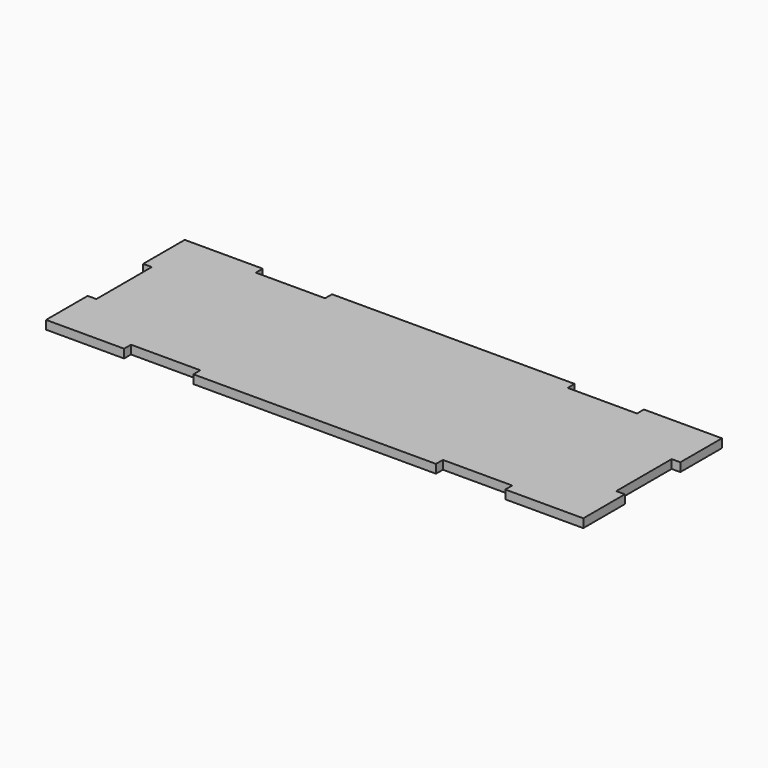
from build123d import *

# Parameters (mm, degrees)
F0_W     = 6.35
F0_H     = 38.1
F1_DEPTH = 6.35


with BuildPart() as f1:
    # F0 (on Top) → F1 (new body)
    with BuildSketch(Plane.XY):
        Polygon((-125.311107, 62.396291), (-176.111107, 62.396291), (-176.111107, 24.296291), (-176.111107, -26.503709), (-176.111107, -64.603709), (-125.311107, -64.603709), (-125.311107, -58.253709), (-74.511107, -58.253709), (-74.511107, -64.603709), (103.288893, -64.603709), (103.288893, -58.253709), (154.088893, -58.253709), (154.088893, -64.603709), (204.888893, -64.603709), (204.888893, -26.503709), (204.888893, 24.296291), (204.888893, 62.396291), (154.088893, 62.396291), (154.088893, 56.046291), (103.288893, 56.046291), (103.288893, 62.396291), (-74.511107, 62.396291), (-74.511107, 56.046291), (-125.311107, 56.046291), align=None)
        with Locations((-179.286107, 43.346291)):
            Rectangle(F0_W, F0_H)
        with Locations((-179.286107, -45.553709)):
            Rectangle(F0_W, F0_H)
        with Locations((208.063893, 43.346291)):
            Rectangle(F0_W, F0_H)
        with Locations((208.063893, -45.553709)):
            Rectangle(F0_W, F0_H)
    extrude(amount=F1_DEPTH)


solid = f1.part
